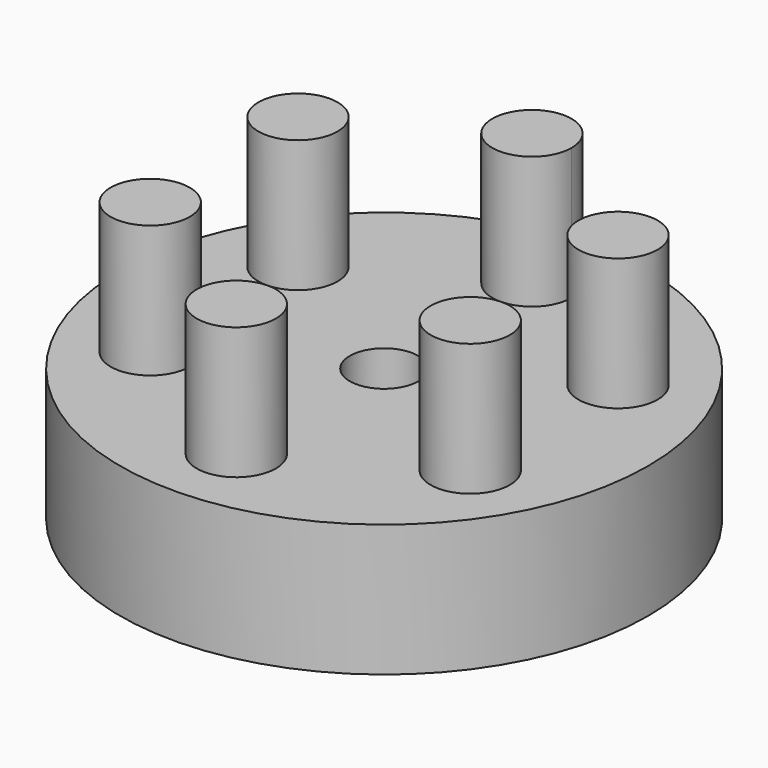
from build123d import *

# Parameters (mm, degrees)
F0_R     = 25.4
F0_R_2   = 3.302
F1_DEPTH = 12.7
F2_R     = 3.81
F3_DEPTH = 12.7


with BuildPart() as f1:
    # F0 (on Top) → F1 (new body)
    with BuildSketch(Plane.XY):
        Circle(F0_R)
        Circle(F0_R_2, mode=Mode.SUBTRACT)
    extrude(amount=F1_DEPTH)

    # F2 (on face) → F3 (join)
    with BuildSketch(Plane.XY.offset(12.7)):
        with BuildLine():
            ThreePointArc((0, 21.59), (-2.694077, 15.085923), (3.81, 17.78))
            ThreePointArc((3.81, 17.78), (2.694077, 20.474077), (0, 21.59))
        make_face()
        with Locations((-15.397932, 8.89)):
            Circle(F2_R)
        with Locations((-15.397932, -8.89)):
            Circle(F2_R)
        with Locations((0, -17.78)):
            Circle(F2_R)
        with Locations((15.397932, -8.89)):
            Circle(F2_R)
        with Locations((15.397932, 8.89)):
            Circle(F2_R)
    extrude(amount=F3_DEPTH)


solid = f1.part
